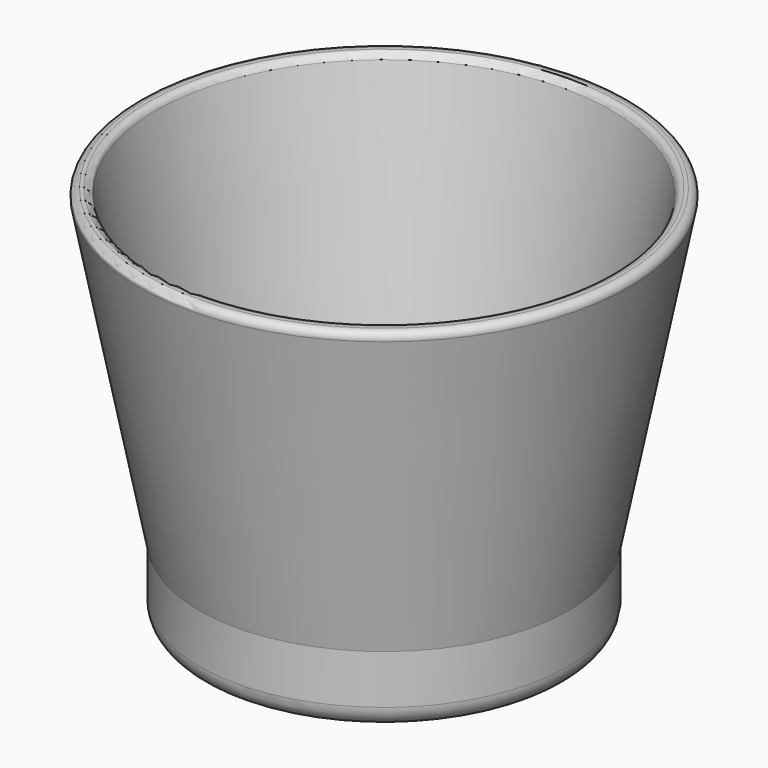
from build123d import *

# Parameters (mm, degrees)
F2_T     = -2.5
F3_DEPTH = 10
F4_R     = 5
F5_R     = 1
F6_R     = 3


with BuildPart() as f1:
    # F0 (on Front) → F1 (revolve)
    with BuildSketch(Plane.XZ):
        Polygon((0, 44.5134416223), (-35.1207107306, 44.5134416223), (-26.3405442238, 0), (0, 0), align=None)
    revolve(axis=Axis((0, 0, 22.2567208111), (0, 0, 1)))

    # F2
    f2_openings = [f1.faces().sort_by_distance(p)[0] for p in [
        (0, 0, 44.513442),
    ]]
    offset(amount=F2_T, openings=f2_openings)

    # F3 (add): a face of the model
    f3_faces = [f1.faces().sort_by_distance(p)[0] for p in [
        (0, 0, 0),
    ]]
    extrude(f3_faces, amount=F3_DEPTH)

    # F4
    f4_edges = [f1.edges().sort_by_distance(p)[0] for p in [
        (24.285494, 0, 2.5),
    ]]
    fillet(f4_edges, radius=F4_R)

    # F5
    f5_edges = [f1.edges().sort_by_distance(p)[0] for p in [
        (32.572542, 0, 44.513442),
        (35.120711, 0, 44.513442),
    ]]
    fillet(f5_edges, radius=F5_R)

    # F6
    f6_edges = [f1.edges().sort_by_distance(p)[0] for p in [
        (26.340544, 0, -10),
    ]]
    fillet(f6_edges, radius=F6_R)


solid = f1.part
